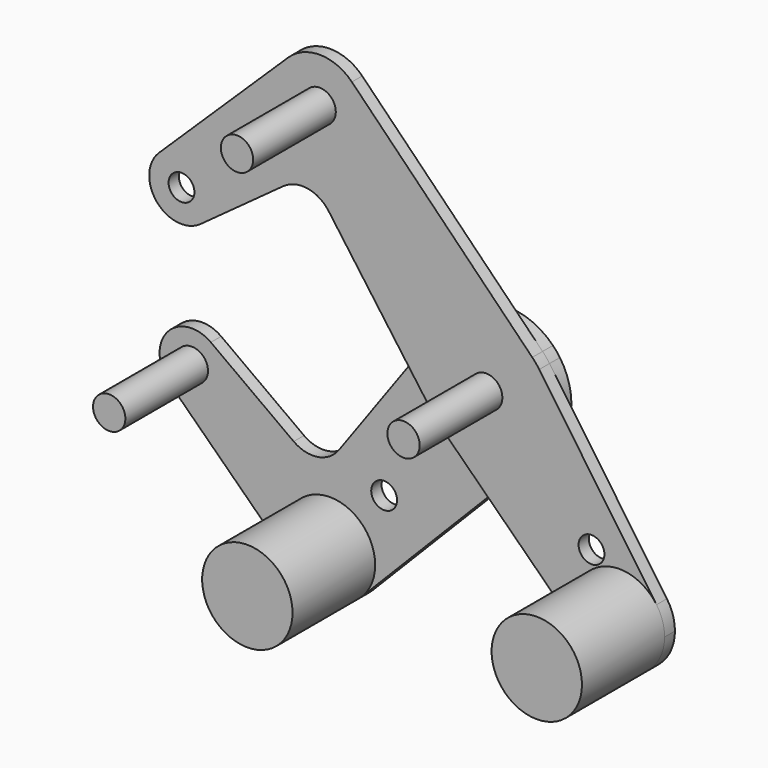
from build123d import *

# Parameters (mm, degrees)
F0_R     = 3.175
F0_R_2   = 3.9751
F1_DEPTH = 3.175
F2_DEPTH = 3.175
F3_R     = 3.9751
F5_DEPTH = 25.4
F3_R_2   = 11.1125
F4_R     = 11.1125
F4_R_2   = 3.9751


with BuildPart() as f1:
    # F0 (on Front) → F1 (new body)
    with BuildSketch(Plane.XZ):
        with BuildLine():
            ThreePointArc((-66.9858438501, 19.8631580146), (-71.8382297424, 27.1765687915), (-80.4626255048, 25.5482494826))
            ThreePointArc((-80.4626255048, 25.5482494826), (-80.9895769634, 14.7441032126), (-70.2506669259, 13.4467730034))
            ThreePointArc((-70.2506669259, 13.4467730034), (-67.8489788844, 16.263537676), (-66.9858438501, 19.8631580146))
        make_face()
        with Locations((-74.9233438501, 19.8631580146)):
            Circle(F0_R, mode=Mode.SUBTRACT)
        with BuildLine():
            ThreePointArc((-12.8661537652, 9.299339347), (-1.190625, 15.8302885984), (11.3304373246, 11.1192092809))
            Line((11.3304373246, 11.1192092809), (-33.0211322888, 56.3133114025))
            ThreePointArc((-33.0211322888, 56.3133114025), (-30.6659352301, 52.7340899778), (-29.8399384161, 48.5298649058))
            ThreePointArc((-29.8399384161, 48.5298649058), (-45.2715981669, 38.2910898181), (-48.7074327326, 56.4889929611))
            Line((-48.7074327326, 56.4889929611), (-80.4626255048, 25.5482494826))
            ThreePointArc((-80.4626255048, 25.5482494826), (-71.8382297424, 27.1765687915), (-66.9858438501, 19.8631580146))
            ThreePointArc((-66.9858438501, 19.8631580146), (-67.8489788844, 16.263537676), (-70.2506669259, 13.4467730034))
            Line((-70.2506669259, 13.4467730034), (-49.875562384, 28.2847667734))
            ThreePointArc((-49.875562384, 28.2847667734), (-43.9463883649, 29.7095884686), (-38.7520393711, 26.5152246911))
            Line((-38.7520393711, 26.5152246911), (-19.5874874185, 0))
            Line((-19.5874874185, 0), (-12.8661537652, 9.299339347))
        make_face()
        with BuildLine():
            ThreePointArc((-29.8399384161, 48.5298649058), (-30.6659352301, 52.7340899778), (-33.0211322888, 56.3133114025))
            ThreePointArc((-33.0211322888, 56.3133114025), (-40.8279897674, 59.6416680351), (-48.7074327326, 56.4889929611))
            ThreePointArc((-48.7074327326, 56.4889929611), (-45.2715981669, 38.2910898181), (-29.8399384161, 48.5298649058))
        make_face()
        with Locations((-40.9524384161, 48.5298649058)):
            Circle(F0_R, mode=Mode.SUBTRACT)
        with BuildLine():
            ThreePointArc((11.3304373246, -11.1192092809), (14.6950045513, -6.0060358171), (15.875, 0))
            ThreePointArc((15.875, 0), (15.1493802753, 4.7446709342), (13.0388548317, 9.0555999071))
            ThreePointArc((13.0388548317, 9.0555999071), (12.2282550252, 10.1235074968), (11.3304373246, 11.1192092809))
            ThreePointArc((11.3304373246, 11.1192092809), (-1.190625, 15.8302885984), (-12.8661537652, 9.299339347))
            ThreePointArc((-12.8661537652, 9.299339347), (-15.875, 0), (-12.8661537652, -9.299339347))
            ThreePointArc((-12.8661537652, -9.299339347), (-12.0356034274, -10.3518054047), (-11.1192092809, -11.3304373246))
            ThreePointArc((-11.1192092809, -11.3304373246), (0.1493607821, -15.87429735), (11.3304373246, -11.1192092809))
        make_face()
        Circle(F0_R_2, mode=Mode.SUBTRACT)
        with BuildLine():
            ThreePointArc((13.0388548317, 9.0555999071), (15.1493802753, 4.7446709342), (15.875, 0))
            ThreePointArc((15.875, 0), (14.6950045513, -6.0060358171), (11.3304373246, -11.1192092809))
            Line((11.3304373246, -11.1192092809), (0.2112280437, -22.4496466055))
            Line((0.2112280437, -22.4496466055), (24.9785042362, -46.7551980519))
            ThreePointArc((24.9785042362, -46.7551980519), (25.59527401, -30.3311655661), (41.889149115, -32.4849719897))
            Line((41.889149115, -32.4849719897), (13.0388548317, 9.0555999071))
        make_face()
        with Locations((25.8931709816, -25.7610933689)):
            Circle(F0_R, mode=Mode.SUBTRACT)
        with BuildLine():
            ThreePointArc((43.8744507328, -38.8238919247), (43.3665169256, -35.5026222708), (41.889149115, -32.4849719897))
            ThreePointArc((41.889149115, -32.4849719897), (25.59527401, -30.3311655661), (24.9785042362, -46.7551980519))
            ThreePointArc((24.9785042362, -46.7551980519), (37.0627708323, -49.0703841402), (43.8744507328, -38.8238919247))
        make_face()
        with Locations((32.7619507328, -38.8238919247)):
            Circle(F0_R, mode=Mode.SUBTRACT)
        with BuildLine():
            ThreePointArc((-12.8661537652, -9.299339347), (-15.875, 0), (-12.8661537652, 9.299339347))
            Line((-12.8661537652, 9.299339347), (-19.5874874185, 0))
            Line((-19.5874874185, 0), (-12.8661537652, -9.299339347))
        make_face()
        with BuildLine():
            Line((0.2112280437, -22.4496466055), (11.3304373246, -11.1192092809))
            ThreePointArc((11.3304373246, -11.1192092809), (0.1493607821, -15.87429735), (-11.1192092809, -11.3304373246))
            Line((-11.1192092809, -11.3304373246), (0.2112280437, -22.4496466055))
        make_face()
    extrude(amount=F1_DEPTH)


with BuildPart() as f2:
    # F0 (on Front) → F2 (new body)
    with BuildSketch(Plane.XZ):
        with BuildLine():
            ThreePointArc((-70.2506669259, -13.4467730034), (-80.9895769634, -14.7441032126), (-80.4626255048, -25.5482494826))
            ThreePointArc((-80.4626255048, -25.5482494826), (-71.8382297424, -27.1765687915), (-66.9858438501, -19.8631580146))
            ThreePointArc((-66.9858438501, -19.8631580146), (-67.8489788844, -16.263537676), (-70.2506669259, -13.4467730034))
        make_face()
        with Locations((-74.9233438501, -19.8631580146)):
            Circle(F0_R, mode=Mode.SUBTRACT)
        with BuildLine():
            Line((0.2112280437, -22.4496466055), (-11.1192092809, -11.3304373246))
            ThreePointArc((-11.1192092809, -11.3304373246), (-12.0356034274, -10.3518054047), (-12.8661537652, -9.299339347))
            Line((-12.8661537652, -9.299339347), (-19.5874874185, 0))
            Line((-19.5874874185, 0), (-38.7520393711, -26.5152246911))
            ThreePointArc((-38.7520393711, -26.5152246911), (-43.9463883649, -29.7095884686), (-49.875562384, -28.2847667734))
            Line((-49.875562384, -28.2847667734), (-70.2506669259, -13.4467730034))
            ThreePointArc((-70.2506669259, -13.4467730034), (-67.8489788844, -16.263537676), (-66.9858438501, -19.8631580146))
            ThreePointArc((-66.9858438501, -19.8631580146), (-71.8382297424, -27.1765687915), (-80.4626255048, -25.5482494826))
            Line((-80.4626255048, -25.5482494826), (-48.7074327326, -56.4889929611))
            ThreePointArc((-48.7074327326, -56.4889929611), (-45.2715981669, -38.2910898181), (-29.8399384161, -48.5298649058))
            ThreePointArc((-29.8399384161, -48.5298649058), (-30.6659352301, -52.7340899778), (-33.0211322888, -56.3133114025))
            Line((-33.0211322888, -56.3133114025), (0.2112280437, -22.4496466055))
        make_face()
        with Locations((-27.6347054432, -32.7479528385)):
            Circle(F0_R, mode=Mode.SUBTRACT)
        with BuildLine():
            ThreePointArc((11.3304373246, -11.1192092809), (14.6950045513, -6.0060358171), (15.875, 0))
            ThreePointArc((15.875, 0), (15.1493802753, 4.7446709342), (13.0388548317, 9.0555999071))
            ThreePointArc((13.0388548317, 9.0555999071), (12.2282550252, 10.1235074968), (11.3304373246, 11.1192092809))
            ThreePointArc((11.3304373246, 11.1192092809), (-1.190625, 15.8302885984), (-12.8661537652, 9.299339347))
            ThreePointArc((-12.8661537652, 9.299339347), (-15.875, 0), (-12.8661537652, -9.299339347))
            ThreePointArc((-12.8661537652, -9.299339347), (-12.0356034274, -10.3518054047), (-11.1192092809, -11.3304373246))
            ThreePointArc((-11.1192092809, -11.3304373246), (0.1493607821, -15.87429735), (11.3304373246, -11.1192092809))
        make_face()
        Circle(F0_R_2, mode=Mode.SUBTRACT)
        with BuildLine():
            Line((0.2112280437, -22.4496466055), (11.3304373246, -11.1192092809))
            ThreePointArc((11.3304373246, -11.1192092809), (0.1493607821, -15.87429735), (-11.1192092809, -11.3304373246))
            Line((-11.1192092809, -11.3304373246), (0.2112280437, -22.4496466055))
        make_face()
        with BuildLine():
            ThreePointArc((-12.8661537652, -9.299339347), (-15.875, 0), (-12.8661537652, 9.299339347))
            Line((-12.8661537652, 9.299339347), (-19.5874874185, 0))
            Line((-19.5874874185, 0), (-12.8661537652, -9.299339347))
        make_face()
        with BuildLine():
            ThreePointArc((-48.7074327326, -56.4889929611), (-40.8279897674, -59.6416680351), (-33.0211322888, -56.3133114025))
            ThreePointArc((-33.0211322888, -56.3133114025), (-30.6659352301, -52.7340899778), (-29.8399384161, -48.5298649058))
            ThreePointArc((-29.8399384161, -48.5298649058), (-45.2715981669, -38.2910898181), (-48.7074327326, -56.4889929611))
        make_face()
        with Locations((-40.9524384161, -48.5298649058)):
            Circle(F0_R, mode=Mode.SUBTRACT)
    extrude(amount=-F2_DEPTH)


with BuildPart() as f5:
    # F3 (on face) → F5 (new body)
    with BuildSketch(Plane.XZ.offset(3.175)):
        Circle(F3_R)
    extrude(amount=F5_DEPTH)


with BuildPart() as f5b:
    # F3 (on face) → F5, piece 2 (new body)
    with BuildSketch(Plane.XZ.offset(3.175)):
        with Locations((32.7619507328, -38.8238919247)):
            Circle(F3_R_2)
    extrude(amount=F5_DEPTH)


with BuildPart() as f5c:
    # F3 (on face) → F5, piece 3 (new body)
    with BuildSketch(Plane.XZ.offset(3.175)):
        with Locations((-40.9524384161, 48.5298649058)):
            Circle(F3_R)
    extrude(amount=F5_DEPTH)


with BuildPart() as f5d:
    # F4 (on face) → F5, piece 4 (new body)
    with BuildSketch(Plane.XZ):
        with Locations((-40.9524384161, -48.5298649058)):
            Circle(F4_R)
    extrude(amount=F5_DEPTH)


with BuildPart() as f5e:
    # F4 (on face) → F5, piece 5 (new body)
    with BuildSketch(Plane.XZ):
        with Locations((-74.9233438501, -19.8631580146)):
            Circle(F4_R_2)
    extrude(amount=F5_DEPTH)


solid = Compound([f1.part, f2.part, f5.part, f5b.part, f5c.part, f5d.part, f5e.part])
